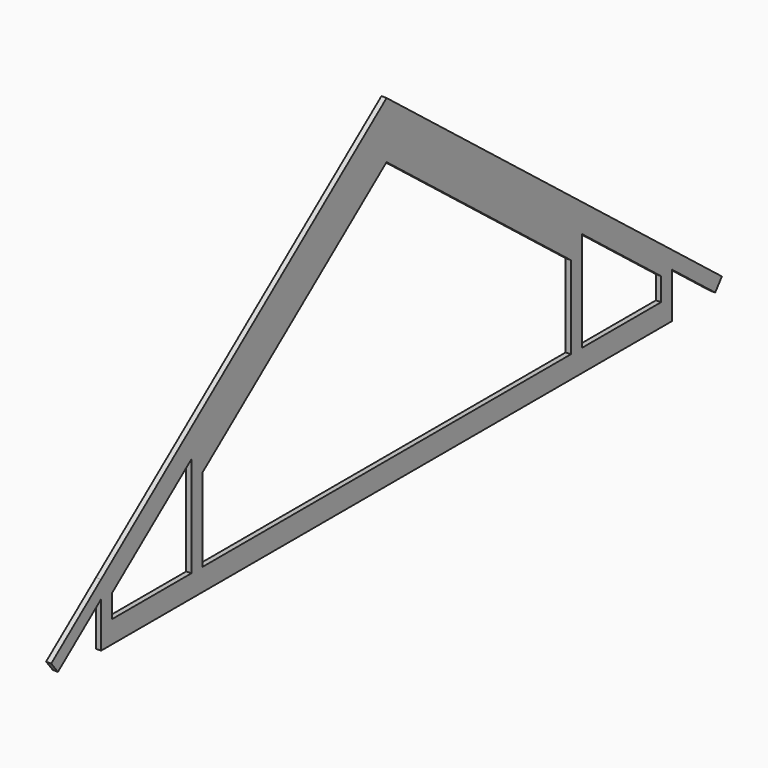
from build123d import *

# Parameters (mm, degrees)
F1_DEPTH = 45


with BuildPart() as f1:
    # F0 (on Right) → F1 (new body)
    with BuildSketch(Plane.YZ):
        Polygon((10080.81271, -4358.628618), (10202.632904, -4358.628618), (10675.439356, -4728.025503), (10749.318733, -4633.464213), (10202.632904, -4206.346432), (7072.632904, -1760.922421), (7072.632904, -2008.380973), (9092.632904, -3586.577939), (9212.632904, -3680.332214), align=None)
        Polygon((7072.632904, -2008.380973), (7072.632904, -2255.839525), (9092.632904, -3834.036491), (9092.632904, -3586.577939), align=None)
        Polygon((3469.826451, -4728.025503), (3942.632904, -4358.628618), (4064.453097, -4358.628618), (4932.632904, -3680.332214), (5052.632904, -3586.577939), (7072.632904, -2008.380973), (7072.632904, -1760.922421), (3942.632904, -4206.346432), (3395.947074, -4633.464213), align=None)
        Polygon((5052.632904, -3586.577939), (5052.632904, -3834.036491), (7072.632904, -2255.839525), (7072.632904, -2008.380973), align=None)
        Polygon((4932.632904, -4561.346432), (5052.632904, -4561.346432), (5052.632904, -3834.036491), (5052.632904, -3586.577939), (4932.632904, -3680.332214), align=None)
        Polygon((3942.632904, -4358.628618), (3942.632904, -4561.346432), (4062.632904, -4561.346432), (4062.632904, -4360.050709), (4064.453097, -4358.628618), align=None)
        Polygon((3942.632904, -4561.346432), (3942.632904, -4756.346432), (7072.632904, -4756.346432), (7072.632904, -4561.346432), (5052.632904, -4561.346432), (4932.632904, -4561.346432), (4062.632904, -4561.346432), align=None)
        Polygon((7072.632904, -4561.346432), (7072.632904, -4756.346432), (10202.632904, -4756.346432), (10202.632904, -4561.346432), (10082.632904, -4561.346432), (9212.632904, -4561.346432), (9092.632904, -4561.346432), align=None)
        Polygon((9092.632904, -3834.036491), (9092.632904, -4561.346432), (9212.632904, -4561.346432), (9212.632904, -3680.332214), (9092.632904, -3586.577939), align=None)
        Polygon((10082.632904, -4561.346432), (10202.632904, -4561.346432), (10202.632904, -4358.628618), (10080.81271, -4358.628618), (10082.632904, -4360.050709), align=None)
        Polygon((10082.632904, -4561.346432), (10202.632904, -4561.346432), (10202.632904, -4358.628618), (10080.81271, -4358.628618), (10082.632904, -4360.050709), align=None)
    extrude(amount=F1_DEPTH)


solid = f1.part
